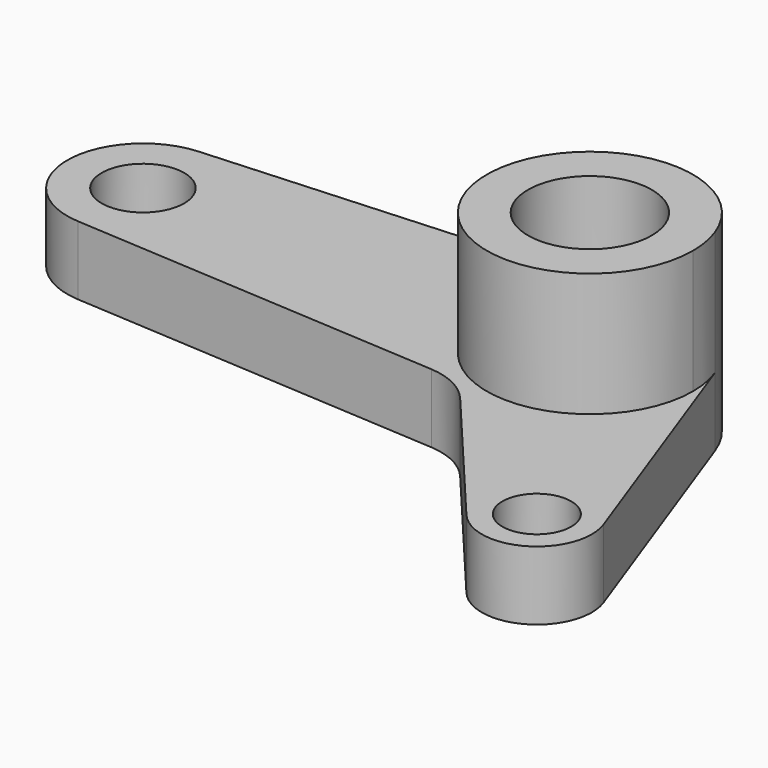
from build123d import *

# Parameters (mm, degrees)
F0_R     = 9
F1_DEPTH = 28
F0_R_2   = 5
F0_R_3   = 6
F2_DEPTH = 10


with BuildPart() as f1:
    # F0 (on Top) → F1 (new body)
    with BuildSketch(Plane.XY):
        with BuildLine():
            ThreePointArc((-0.923077, 14.971571), (-10.275063, -10.928087), (15, 0))
            ThreePointArc((15, 0), (14.773901, 2.594582), (14.102419, 5.110947))
            ThreePointArc((14.102419, 5.110947), (8.22993, 12.540664), (-0.923077, 14.971571))
        make_face()
        Circle(F0_R, mode=Mode.SUBTRACT)
    extrude(amount=F1_DEPTH)

    # F0 (on Top) → F2 (join)
    with BuildSketch(Plane.XY):
        with BuildLine():
            ThreePointArc((-0.923077, 14.971571), (-10.275063, -10.928087), (15, 0))
            ThreePointArc((15, 0), (14.773901, 2.594582), (14.102419, 5.110947))
            ThreePointArc((14.102419, 5.110947), (8.22993, 12.540664), (-0.923077, 14.971571))
        make_face()
        Circle(F0_R, mode=Mode.SUBTRACT)
        with BuildLine():
            ThreePointArc((14.102419, 5.110947), (14.773901, 2.594582), (15, 0))
            ThreePointArc((15, 0), (-10.275063, -10.928087), (-0.923077, 14.971571))
            Line((-0.923077, 14.971571), (-65.676923, 10.979152))
            ThreePointArc((-65.676923, 10.979152), (-76, 0), (-65.676923, -10.979152))
            Line((-65.676923, -10.979152), (-11.616035, -14.312293))
            ThreePointArc((-11.616035, -14.312293), (-7.734373, -15.361567), (-4.579807, -17.854954))
            Line((-4.579807, -17.854954), (13.87871, -39.791725))
            ThreePointArc((13.87871, -39.791725), (24, -41.569219), (27.52129, -31.915178))
            Line((27.52129, -31.915178), (14.102419, 5.110947))
        make_face()
        with Locations((20, -34.641016)):
            Circle(F0_R_2, mode=Mode.SUBTRACT)
        with Locations((-65, 0)):
            Circle(F0_R_3, mode=Mode.SUBTRACT)
    extrude(amount=F2_DEPTH)


solid = f1.part
